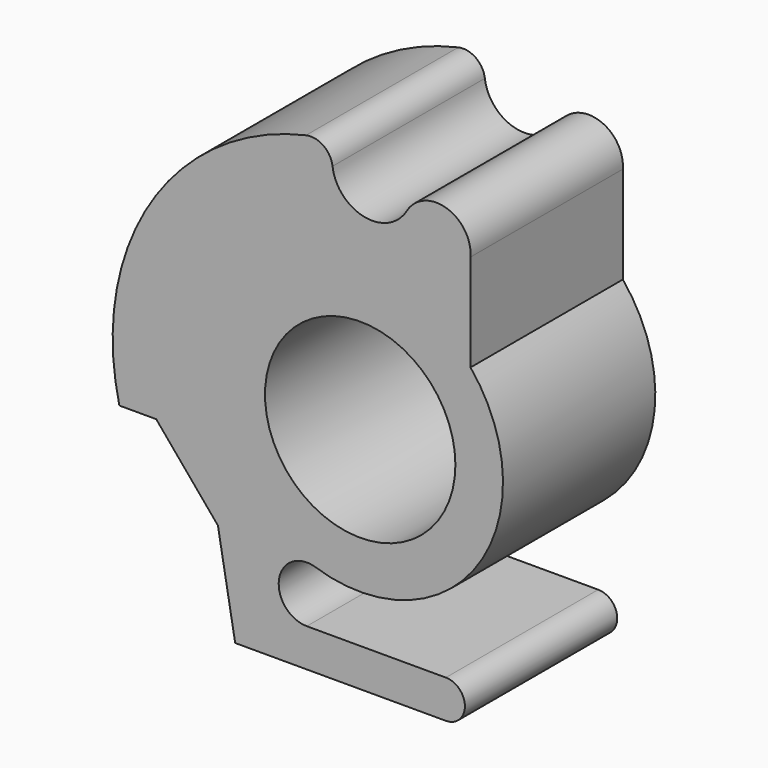
from build123d import *

# Parameters (mm, degrees)
F0_R     = 25.4
F1_DEPTH = 50.8


with BuildPart() as f1:
    # F0 (on Front) → F1 (new body)
    with BuildSketch(Plane.XZ):
        with BuildLine():
            ThreePointArc((-14.250273, -50.8), (-21.647962, -42.122056), (-11.908534, -36.191115))
            ThreePointArc((-11.908534, -36.191115), (31.435567, -21.527079), (29.438246, 24.186766))
            Line((29.438246, 24.186766), (29.438246, 50.1142))
            ThreePointArc((29.438246, 50.1142), (23.035844, 59.531376), (12.421473, 55.407169))
            ThreePointArc((12.421473, 55.407169), (1.066604, 50.33103), (-7.379406, 59.461483))
            ThreePointArc((-7.379406, 59.461483), (-9.815412, 63.516548), (-14.455192, 64.438568))
            ThreePointArc((-14.455192, 64.438568), (-56.000802, 35.00274), (-64.257482, -15.24))
            Line((-64.257482, -15.24), (-54.42206, -15.24))
            Line((-54.42206, -15.24), (-37.956843, -34.862481))
            Line((-37.956843, -34.862481), (-33.355147, -60.96))
            Line((-33.355147, -60.96), (22.86, -60.96))
            ThreePointArc((22.86, -60.96), (27.94, -55.88), (22.86, -50.8))
            Line((22.86, -50.8), (-14.250273, -50.8))
        make_face()
        Circle(F0_R, mode=Mode.SUBTRACT)
    extrude(amount=F1_DEPTH)


solid = f1.part
